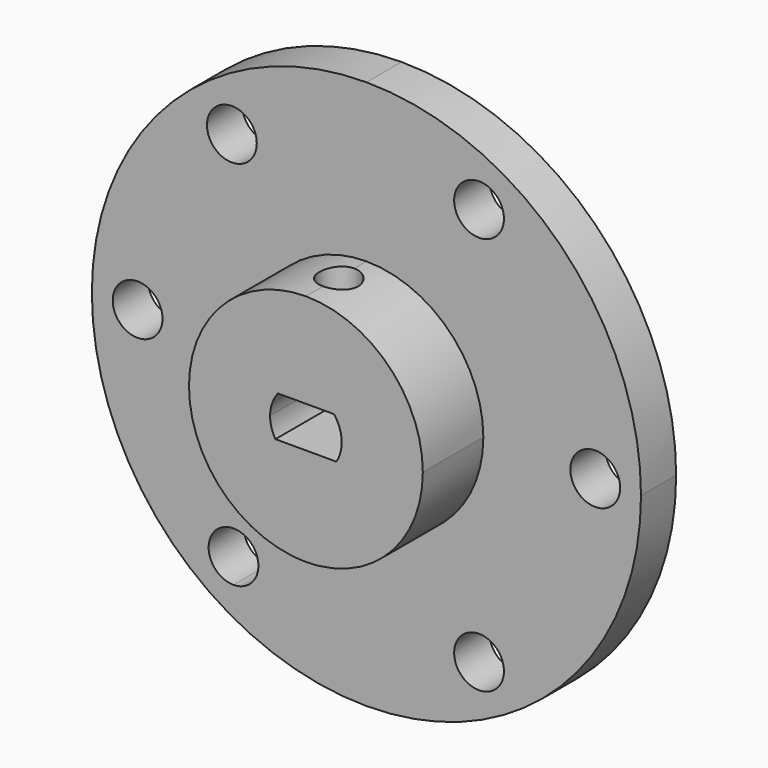
from build123d import *

# Parameters (mm, degrees)
F0_R     = 2.5908
F1_DEPTH = 4.572
F2_DEPTH = 12.446
F3_R     = 2.0193
F4_DEPTH = 50.8


with BuildPart() as f1:
    # F0 (on Front) → F1 (new body)
    with BuildSketch(Plane.XZ):
        with BuildLine():
            Line((26.4033, 0), (28.575, 0))
            ThreePointArc((28.575, 0), (20.2055762724, 20.2055762724), (0, 28.575))
            Line((0, 28.575), (0, 12.1666))
            ThreePointArc((0, 12.1666), (8.603085364, 8.603085364), (12.1666, 0))
            Line((12.1666, 0), (21.2217, 0))
            ThreePointArc((21.2217, 0), (23.8125, 2.5908), (26.4033, 0))
        make_face()
        with Locations((11.7190584855, 20.7291780943)):
            Circle(F0_R, mode=Mode.SUBTRACT)
        with BuildLine():
            ThreePointArc((0, -28.575), (20.2055762724, -20.2055762724), (28.575, 0))
            Line((28.575, 0), (26.4033, 0))
            ThreePointArc((26.4033, 0), (23.8125, -2.5908), (21.2217, 0))
            Line((21.2217, 0), (12.1666, 0))
            ThreePointArc((12.1666, 0), (9.1104172738, -8.0638981055), (1.4772615395, -12.0765828736))
            ThreePointArc((1.4772615395, -12.0765828736), (0.7400008006, -12.144074867), (0, -12.1666))
            Line((0, -12.1666), (0, -28.575))
        make_face()
        with Locations((11.7190584855, -20.7291780943)):
            Circle(F0_R, mode=Mode.SUBTRACT)
        with BuildLine():
            Line((0, 12.1666), (0, 28.575))
            ThreePointArc((0, 28.575), (-20.2055762724, 20.2055762724), (-28.575, 0))
            Line((-28.575, 0), (-26.4033, 0))
            ThreePointArc((-26.4033, 0), (-23.8125, 2.5908), (-21.2217, 0))
            Line((-21.2217, 0), (-12.1666, 0))
            ThreePointArc((-12.1666, 0), (-8.603085364, 8.603085364), (0, 12.1666))
        make_face()
        with Locations((-14.0022196536, 19.260659413)):
            Circle(F0_R, mode=Mode.SUBTRACT)
        with BuildLine():
            ThreePointArc((-28.575, 0), (-20.2055762724, -20.2055762724), (0, -28.575))
            Line((0, -28.575), (0, -12.1666))
            ThreePointArc((0, -12.1666), (-0.7613836332, -12.1427530043), (-1.5197825851, -12.0713054992))
            ThreePointArc((-1.5197825851, -12.0713054992), (-9.1246025217, -8.0478434615), (-12.1666, 0))
            Line((-12.1666, 0), (-21.2217, 0))
            ThreePointArc((-21.2217, 0), (-23.8125, -2.5908), (-26.4033, 0))
            Line((-26.4033, 0), (-28.575, 0))
        make_face()
        with BuildLine():
            ThreePointArc((-13.8432016041, -21.9729224119), (-15.6621403898, -17.5467676407), (-11.2427748724, -19.3821402972))
            ThreePointArc((-11.2427748724, -19.3821402972), (-12.0050093549, -21.2175129537), (-13.8432016041, -21.9729224119))
        make_face(mode=Mode.SUBTRACT)
    extrude(amount=F1_DEPTH)

    # F0 (on Front) → F2 (join)
    with BuildSketch(Plane.XZ):
        with BuildLine():
            Line((-3.72745, 0), (-12.1666, 0))
            ThreePointArc((-12.1666, 0), (-9.1246025217, -8.0478434615), (-1.5197825851, -12.0713054992))
            Line((-1.5197825851, -12.0713054992), (-1.5197825851, -1.9539885713))
            Line((-1.5197825851, -1.9539885713), (-3.1742419829, -1.9539885713))
            ThreePointArc((-3.1742419829, -1.9539885713), (-3.586482384, -1.0153952982), (-3.72745, 0))
        make_face()
        with BuildLine():
            ThreePointArc((1.4772615395, -12.0765828736), (9.1104172738, -8.0638981055), (12.1666, 0))
            Line((12.1666, 0), (3.72745, 0))
            ThreePointArc((3.72745, 0), (3.586482384, -1.0153952982), (3.1742419829, -1.9539885713))
            Line((3.1742419829, -1.9539885713), (1.4772615395, -1.9539885713))
            Line((1.4772615395, -1.9539885713), (1.4772615395, -12.0765828736))
        make_face()
        with BuildLine():
            ThreePointArc((12.1666, 0), (8.603085364, 8.603085364), (0, 12.1666))
            Line((0, 12.1666), (0, 2.3218799357))
            Line((0, 2.3218799357), (2.9159487421, 2.3218799357))
            ThreePointArc((2.9159487421, 2.3218799357), (3.5187310668, 1.2298029036), (3.72745, 0))
            Line((3.72745, 0), (12.1666, 0))
        make_face()
        with BuildLine():
            Line((0, 2.3218799357), (0, 12.1666))
            ThreePointArc((0, 12.1666), (-8.603085364, 8.603085364), (-12.1666, 0))
            Line((-12.1666, 0), (-3.72745, 0))
            ThreePointArc((-3.72745, 0), (-3.5187310668, 1.2298029036), (-2.9159487421, 2.3218799357))
            Line((-2.9159487421, 2.3218799357), (0, 2.3218799357))
        make_face()
        with BuildLine():
            Line((0, -1.9539885713), (0, -12.1666))
            ThreePointArc((0, -12.1666), (0.7400008006, -12.144074867), (1.4772615395, -12.0765828736))
            Line((1.4772615395, -12.0765828736), (1.4772615395, -1.9539885713))
            Line((1.4772615395, -1.9539885713), (0, -1.9539885713))
        make_face()
        with BuildLine():
            ThreePointArc((-1.5197825851, -12.0713054992), (-0.7613836332, -12.1427530043), (0, -12.1666))
            Line((0, -12.1666), (0, -1.9539885713))
            Line((0, -1.9539885713), (-1.5197825851, -1.9539885713))
            Line((-1.5197825851, -1.9539885713), (-1.5197825851, -12.0713054992))
        make_face()
    extrude(amount=F2_DEPTH)

    # F3 (on Top) → F4 (cut)
    with BuildSketch(Plane.XY):
        with Locations((0, -8.1789378586)):
            Circle(F3_R)
    extrude(amount=F4_DEPTH, mode=Mode.SUBTRACT)


solid = f1.part
